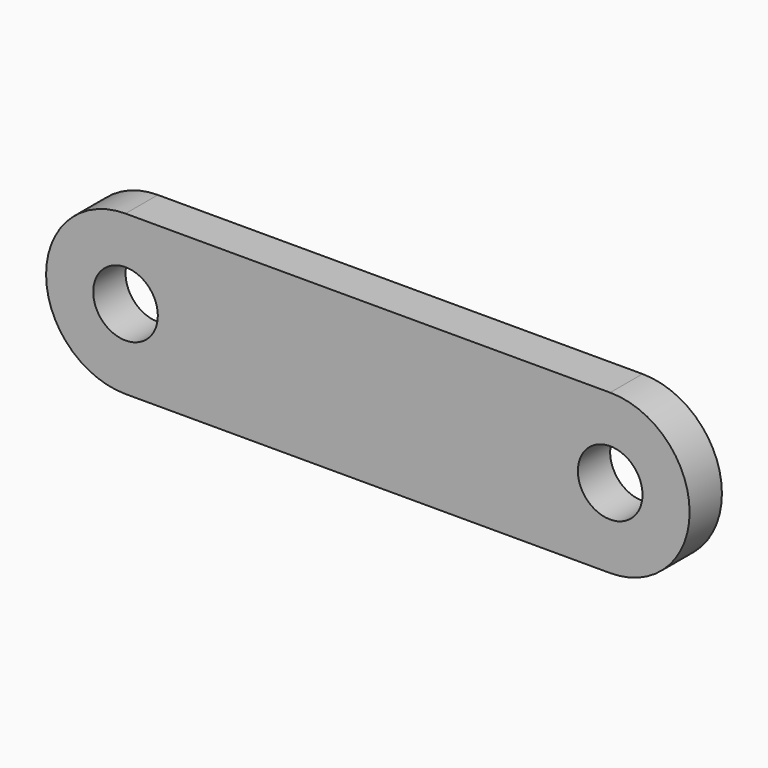
from build123d import *

# Parameters (mm, degrees)
F0_R     = 4
F1_DEPTH = 2.5


with BuildPart() as f1:
    # F0 (on Front) → F1 (new body, symmetric)
    with BuildSketch(Plane.XZ):
        with BuildLine():
            Line((0, 9.835), (-30, 9.835))
            ThreePointArc((-30, 9.835), (-39.835, 0), (-30, -9.835))
            Line((-30, -9.835), (0, -9.835))
            Line((0, -9.835), (30, -9.835))
            ThreePointArc((30, -9.835), (39.835, 0), (30, 9.835))
            Line((30, 9.835), (0, 9.835))
        make_face()
        with Locations((-30, 0)):
            Circle(F0_R, mode=Mode.SUBTRACT)
        with Locations((30, 0)):
            Circle(F0_R, mode=Mode.SUBTRACT)
    extrude(amount=F1_DEPTH, both=True)


solid = f1.part
